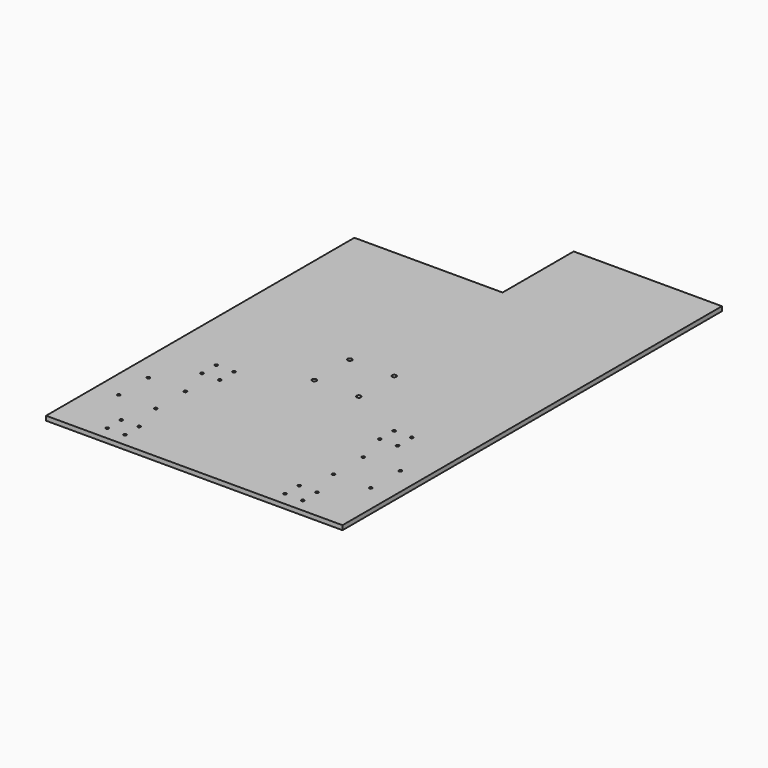
from build123d import *

# Parameters (mm, degrees)
F0_W     = 2000
F0_H     = 3200
F0_R     = 10
F0_R_2   = 15
F1_DEPTH = 30
F2_W     = 1000
F2_H     = 600
F3_DEPTH = 30


with BuildPart() as f1:
    # F0 (on Top) → F1 (new body)
    with BuildSketch(Plane.XY):
        with Locations((0, 1050)):
            Rectangle(F0_W, F0_H)
        with Locations((-660, -460)):
            Circle(F0_R, mode=Mode.SUBTRACT)
        with Locations((-540, -460)):
            Circle(F0_R, mode=Mode.SUBTRACT)
        with Locations((-660, -340)):
            Circle(F0_R, mode=Mode.SUBTRACT)
        with Locations((-540, -340)):
            Circle(F0_R, mode=Mode.SUBTRACT)
        with Locations((-850, -125)):
            Circle(F0_R, mode=Mode.SUBTRACT)
        with Locations((-850, 125)):
            Circle(F0_R, mode=Mode.SUBTRACT)
        with Locations((-600, -125)):
            Circle(F0_R, mode=Mode.SUBTRACT)
        with Locations((-600, 125)):
            Circle(F0_R, mode=Mode.SUBTRACT)
        with Locations((-660, 340)):
            Circle(F0_R, mode=Mode.SUBTRACT)
        with Locations((-540, 340)):
            Circle(F0_R, mode=Mode.SUBTRACT)
        with Locations((-660, 460)):
            Circle(F0_R, mode=Mode.SUBTRACT)
        with Locations((-540, 460)):
            Circle(F0_R, mode=Mode.SUBTRACT)
        with Locations((-150, 650)):
            Circle(F0_R_2, mode=Mode.SUBTRACT)
        with Locations((-150, 950)):
            Circle(F0_R_2, mode=Mode.SUBTRACT)
        with Locations((540, -460)):
            Circle(F0_R, mode=Mode.SUBTRACT)
        with Locations((660, -460)):
            Circle(F0_R, mode=Mode.SUBTRACT)
        with Locations((540, -340)):
            Circle(F0_R, mode=Mode.SUBTRACT)
        with Locations((660, -340)):
            Circle(F0_R, mode=Mode.SUBTRACT)
        with Locations((600, -125)):
            Circle(F0_R, mode=Mode.SUBTRACT)
        with Locations((600, 125)):
            Circle(F0_R, mode=Mode.SUBTRACT)
        with Locations((850, -125)):
            Circle(F0_R, mode=Mode.SUBTRACT)
        with Locations((850, 125)):
            Circle(F0_R, mode=Mode.SUBTRACT)
        with Locations((150, 650)):
            Circle(F0_R_2, mode=Mode.SUBTRACT)
        with Locations((150, 950)):
            Circle(F0_R_2, mode=Mode.SUBTRACT)
        with Locations((540, 340)):
            Circle(F0_R, mode=Mode.SUBTRACT)
        with Locations((660, 340)):
            Circle(F0_R, mode=Mode.SUBTRACT)
        with Locations((540, 460)):
            Circle(F0_R, mode=Mode.SUBTRACT)
        with Locations((660, 460)):
            Circle(F0_R, mode=Mode.SUBTRACT)
    extrude(amount=F1_DEPTH)

    # F2 (on face) → F3 (cut)
    with BuildSketch(Plane.XY.offset(30)):
        with Locations((-500, 2350)):
            Rectangle(F2_W, F2_H)
    extrude(amount=-F3_DEPTH, mode=Mode.SUBTRACT)


solid = f1.part
